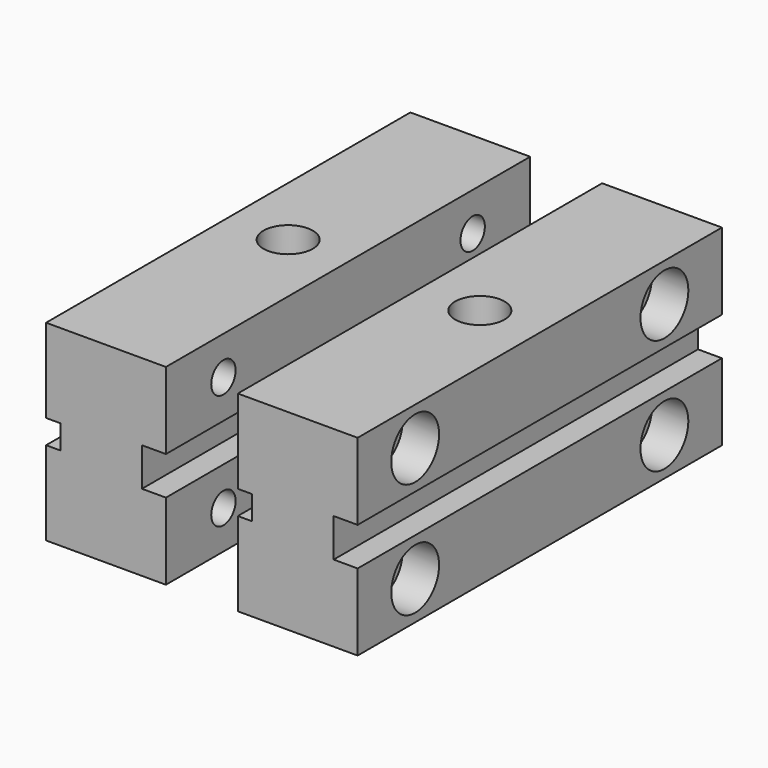
from build123d import *

# Parameters (mm, degrees)
F0_W            = 15.875
F0_H            = 60.325
F1_DEPTH        = 25.4
F3_D            = 6.5278
F4_W            = 60.325
F4_H            = 5.08
F5_DEPTH        = 3.175
F6_W            = 60.325
F6_H            = 3.175
F7_DEPTH        = 1.905
F10_D           = 4.0386
F12_D           = 4.9784
F12_CBORE_D     = 7.9248
F12_CBORE_DEPTH = 4.826
F14_D           = 4.9784
F14_START       = 9.525
F14_CBORE_D     = 7.9248
F14_CBORE_DEPTH = 4.826


with BuildPart() as f1:
    # F0 (on Top) → F1 (new body)
    with BuildSketch(Plane.XY):
        Rectangle(F0_W, F0_H)
    extrude(amount=F1_DEPTH)

    # F3 (through all)
    with Locations(Plane.XY.offset(25.4)):
        with Locations((0, 0)):
            Hole(F3_D / 2)

    # F4 (on face) → F5 (cut)
    with BuildSketch(Plane.YZ.offset(7.9375)):
        with Locations((0, 12.7)):
            Rectangle(F4_W, F4_H)
    extrude(amount=-F5_DEPTH, mode=Mode.SUBTRACT)

    # F6 (on face) → F7 (cut)
    with BuildSketch(Plane(origin=(-7.9375, 0, 0), x_dir=(0, -1, 0), z_dir=(-1, 0, 0))):
        with Locations((0, 12.7)):
            Rectangle(F6_W, F6_H)
    extrude(amount=-F7_DEPTH, mode=Mode.SUBTRACT)


with BuildPart() as f8_1:
    # F8: copy of F1
    add(f1.part.moved(Location((25.4, 0, 0))))

    # F12 (through all)
    with Locations(Plane.YZ.offset(33.3375)):
        with Locations((-20.6375, 20.32), (20.6375, 20.32), (20.6375, 5.08), (-20.6375, 5.08)):
            CounterBoreHole(F12_D / 2, F12_CBORE_D / 2, F12_CBORE_DEPTH)

    # F14 (through all)
    # its depths count from where the whole tool has entered the part; down to there all is cleared
    with Locations(Plane(origin=(7.9375, 0, 0), x_dir=(0, 1, 0), z_dir=(-1, 0, 0)).offset(-F14_START)):
        with Locations((20.6375, -20.32), (-20.6375, -20.32), (-20.6375, -5.08), (20.6375, -5.08)):
            CounterBoreHole(F14_D / 2, F14_CBORE_D / 2, F14_CBORE_DEPTH)


with BuildPart() as f1_1:
    add(f1.part)

    # F10 (through all)
    with Locations(Plane.YZ.offset(7.9375)):
        with Locations((-20.6375, 20.32), (-20.6375, 5.08), (20.6375, 5.08), (20.6375, 20.32)):
            Hole(F10_D / 2)


solid = Compound([f8_1.part, f1_1.part])
